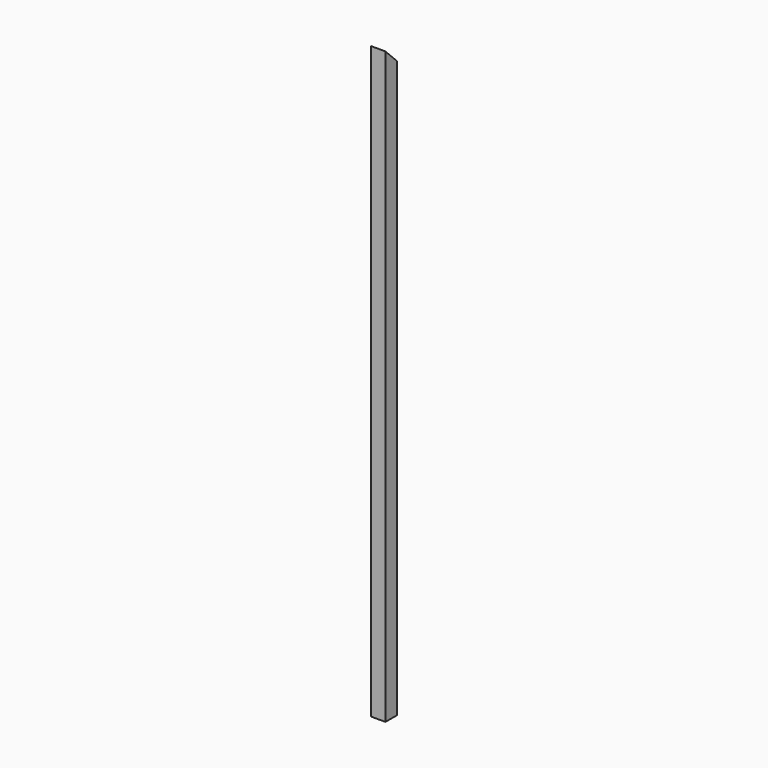
from build123d import *

# Parameters (mm, degrees)
F0_W          = 50
F0_H          = 50
F1_DEPTH      = 2050
F3_DEPTH      = 25.001
F3_DEPTH_BACK = 25.001


with BuildPart() as f1:
    # F0 (on Top) → F1 (new body)
    with BuildSketch(Plane.XY):
        Rectangle(F0_W, F0_H)
    extrude(amount=F1_DEPTH)

    # F2 (on Right) → F3 (cut, two sides)
    with BuildSketch(Plane.YZ) as f3_sk:
        Polygon((135.3058686236, 2050), (-25, 2050), (135.3058686236, 1889.6941313764), align=None)
    extrude(amount=-F3_DEPTH, mode=Mode.SUBTRACT)
    extrude(f3_sk.sketch, amount=F3_DEPTH_BACK, mode=Mode.SUBTRACT)


solid = f1.part
